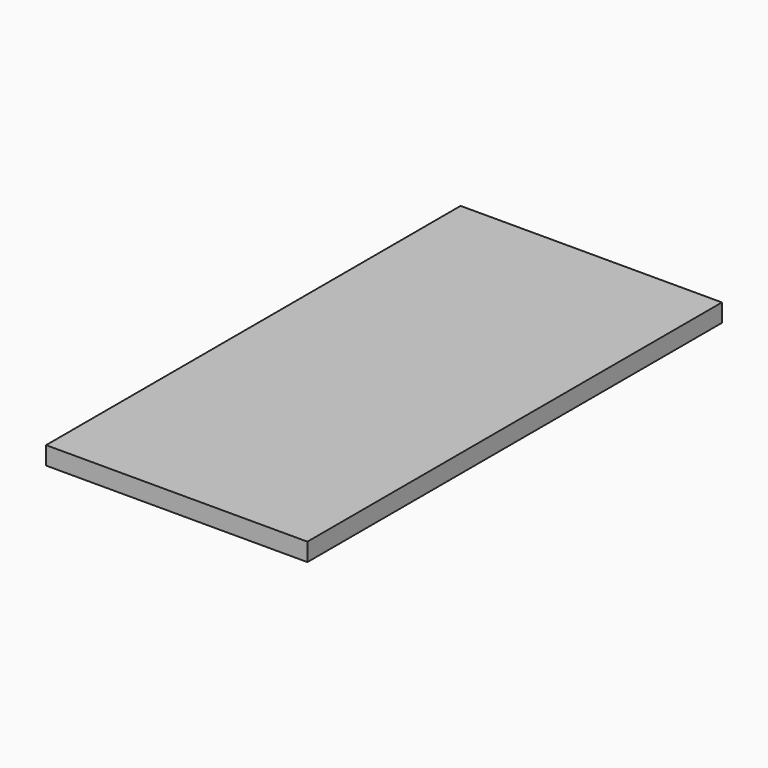
from build123d import *

# Parameters (mm, degrees)
F0_W     = 3683
F0_H     = 7302.5
F1_DEPTH = 254
F2_DEPTH = 203.2
F3_W     = 206.375
F3_H     = 266.7
F3_W_2   = 508
F3_H_2   = 508
F3_W_3   = 485.775
F3_W_4   = 200.025
F3_W_5   = 171.45
F4_DEPTH = 50.8


with BuildPart() as f1:
    # F0 (on Top) → F1 (new body)
    with BuildSketch(Plane.XY):
        with Locations((-1555.75, 3365.5)):
            Rectangle(F0_W, F0_H)
        Polygon((0, 5156.2), (0, 0), (-2343.15, 0), (-2343.15, 2794), (-3232.15, 2794), (-3232.15, 3810), (-2946.4, 3810), (-2946.4, 6731), (0, 6731), (0, 5899.15), (-34.925, 5899.15), (-34.925, 5156.2), align=None, mode=Mode.SUBTRACT)
    extrude(amount=-F1_DEPTH)

    # F0 (on Top) → F2 (join)
    with BuildSketch(Plane.XY):
        with Locations((-1555.75, 3365.5)):
            Rectangle(F0_W, F0_H)
        Polygon((0, 5156.2), (0, 0), (-2343.15, 0), (-2343.15, 2794), (-3232.15, 2794), (-3232.15, 3810), (-2946.4, 3810), (-2946.4, 6731), (0, 6731), (0, 5899.15), (-34.925, 5899.15), (-34.925, 5156.2), align=None, mode=Mode.SUBTRACT)
        Polygon((-2343.15, 0), (0, 0), (0, 5156.2), (-34.925, 5156.2), (-34.925, 5899.15), (0, 5899.15), (0, 6731), (-2946.4, 6731), (-2946.4, 3810), (-3232.15, 3810), (-3232.15, 2794), (-2343.15, 2794), align=None)
    extrude(amount=-F2_DEPTH)

    # F3 (on face) → F4 (cut)
    with BuildSketch(Plane(origin=(0, 0, -203.2), x_dir=(1, 0, 0), z_dir=(0, 0, -1))):
        with Locations((-2239.9625, -133.35)):
            Rectangle(F3_W, F3_H)
        with Locations((-1781.175, -133.35)):
            Rectangle(F3_W_2, F3_H)
        with Locations((-1171.575, -133.35)):
            Rectangle(F3_W_2, F3_H)
        with Locations((-561.975, -133.35)):
            Rectangle(F3_W_2, F3_H)
        with Locations((-103.1875, -133.35)):
            Rectangle(F3_W, F3_H)
        with Locations((-103.1875, -622.3)):
            Rectangle(F3_W, F3_H_2)
        with Locations((-561.975, -622.3)):
            Rectangle(F3_W_2, F3_H_2)
        with Locations((-1171.575, -622.3)):
            Rectangle(F3_W_2, F3_H_2)
        with Locations((-1781.175, -622.3)):
            Rectangle(F3_W_2, F3_H_2)
        with Locations((-2239.9625, -622.3)):
            Rectangle(F3_W, F3_H_2)
        with Locations((-2239.9625, -1231.9)):
            Rectangle(F3_W, F3_H_2)
        with Locations((-1781.175, -1231.9)):
            Rectangle(F3_W_2, F3_H_2)
        with Locations((-1171.575, -1231.9)):
            Rectangle(F3_W_2, F3_H_2)
        with Locations((-561.975, -1231.9)):
            Rectangle(F3_W_2, F3_H_2)
        with Locations((-103.1875, -1231.9)):
            Rectangle(F3_W, F3_H_2)
        with Locations((-103.1875, -1841.5)):
            Rectangle(F3_W, F3_H_2)
        with Locations((-561.975, -1841.5)):
            Rectangle(F3_W_2, F3_H_2)
        with Locations((-1171.575, -1841.5)):
            Rectangle(F3_W_2, F3_H_2)
        with Locations((-1781.175, -1841.5)):
            Rectangle(F3_W_2, F3_H_2)
        with Locations((-2239.9625, -1841.5)):
            Rectangle(F3_W, F3_H_2)
        with Locations((-2239.9625, -2451.1)):
            Rectangle(F3_W, F3_H_2)
        with Locations((-1781.175, -2451.1)):
            Rectangle(F3_W_2, F3_H_2)
        with Locations((-1171.575, -2451.1)):
            Rectangle(F3_W_2, F3_H_2)
        with Locations((-561.975, -2451.1)):
            Rectangle(F3_W_2, F3_H_2)
        with Locations((-103.1875, -2451.1)):
            Rectangle(F3_W, F3_H_2)
        with Locations((-103.1875, -3060.7)):
            Rectangle(F3_W, F3_H_2)
        with Locations((-561.975, -3060.7)):
            Rectangle(F3_W_2, F3_H_2)
        with Locations((-1171.575, -3060.7)):
            Rectangle(F3_W_2, F3_H_2)
        with Locations((-1781.175, -3060.7)):
            Rectangle(F3_W_2, F3_H_2)
        with Locations((-2390.775, -3060.7)):
            Rectangle(F3_W_2, F3_H_2)
        with Locations((-2989.2625, -3060.7)):
            Rectangle(F3_W_3, F3_H_2)
        Polygon((-2746.375, -3416.3), (-3232.15, -3416.3), (-3232.15, -3810), (-2946.4, -3810), (-2946.4, -3924.3), (-2746.375, -3924.3), align=None)
        with Locations((-2390.775, -3670.3)):
            Rectangle(F3_W_2, F3_H_2)
        with Locations((-1781.175, -3670.3)):
            Rectangle(F3_W_2, F3_H_2)
        with Locations((-1171.575, -3670.3)):
            Rectangle(F3_W_2, F3_H_2)
        with Locations((-561.975, -3670.3)):
            Rectangle(F3_W_2, F3_H_2)
        with Locations((-103.1875, -3670.3)):
            Rectangle(F3_W, F3_H_2)
        with Locations((-2846.3875, -4279.9)):
            Rectangle(F3_W_4, F3_H_2)
        with Locations((-2390.775, -4279.9)):
            Rectangle(F3_W_2, F3_H_2)
        with Locations((-1781.175, -4279.9)):
            Rectangle(F3_W_2, F3_H_2)
        with Locations((-1171.575, -4279.9)):
            Rectangle(F3_W_2, F3_H_2)
        with Locations((-561.975, -4279.9)):
            Rectangle(F3_W_2, F3_H_2)
        with Locations((-103.1875, -4279.9)):
            Rectangle(F3_W, F3_H_2)
        with Locations((-103.1875, -4889.5)):
            Rectangle(F3_W, F3_H_2)
        with Locations((-561.975, -4889.5)):
            Rectangle(F3_W_2, F3_H_2)
        with Locations((-1171.575, -4889.5)):
            Rectangle(F3_W_2, F3_H_2)
        with Locations((-1781.175, -4889.5)):
            Rectangle(F3_W_2, F3_H_2)
        with Locations((-2390.775, -4889.5)):
            Rectangle(F3_W_2, F3_H_2)
        with Locations((-2846.3875, -4889.5)):
            Rectangle(F3_W_4, F3_H_2)
        with Locations((-2846.3875, -5499.1)):
            Rectangle(F3_W_4, F3_H_2)
        with Locations((-2390.775, -5499.1)):
            Rectangle(F3_W_2, F3_H_2)
        with Locations((-1781.175, -5499.1)):
            Rectangle(F3_W_2, F3_H_2)
        with Locations((-1171.575, -5499.1)):
            Rectangle(F3_W_2, F3_H_2)
        with Locations((-561.975, -5499.1)):
            Rectangle(F3_W_2, F3_H_2)
        with Locations((-120.65, -5499.1)):
            Rectangle(F3_W_5, F3_H_2)
        Polygon((-34.925, -5899.15), (-34.925, -5854.7), (-206.375, -5854.7), (-206.375, -6362.7), (0, -6362.7), (0, -5899.15), align=None)
        with Locations((-561.975, -6108.7)):
            Rectangle(F3_W_2, F3_H_2)
        with Locations((-1171.575, -6108.7)):
            Rectangle(F3_W_2, F3_H_2)
        with Locations((-1781.175, -6108.7)):
            Rectangle(F3_W_2, F3_H_2)
        with Locations((-2390.775, -6108.7)):
            Rectangle(F3_W_2, F3_H_2)
        with Locations((-2846.3875, -6108.7)):
            Rectangle(F3_W_4, F3_H_2)
        with Locations((-2846.3875, -6597.65)):
            Rectangle(F3_W_4, F3_H)
        with Locations((-2390.775, -6597.65)):
            Rectangle(F3_W_2, F3_H)
        with Locations((-1781.175, -6597.65)):
            Rectangle(F3_W_2, F3_H)
        with Locations((-1171.575, -6597.65)):
            Rectangle(F3_W_2, F3_H)
        with Locations((-561.975, -6597.65)):
            Rectangle(F3_W_2, F3_H)
        with Locations((-103.1875, -6597.65)):
            Rectangle(F3_W, F3_H)
    extrude(amount=-F4_DEPTH, mode=Mode.SUBTRACT)


solid = f1.part
